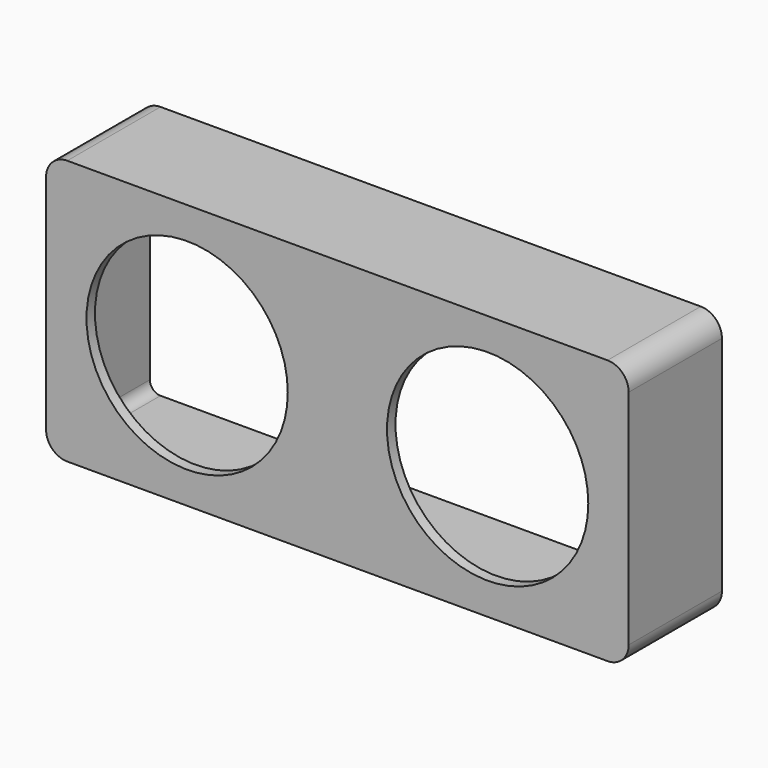
from build123d import *

# Parameters (mm, degrees)
F0_R     = 9.5
F1_DEPTH = 1
F3_DEPTH = 10
F4_DEPTH = 35.9


with BuildPart() as f1:
    # F0 (on Front) → F1 (new body)
    with BuildSketch(Plane.XZ):
        with BuildLine():
            Line((25.5, 12.5), (-25.5, 12.5))
            ThreePointArc((-25.5, 12.5), (-26.914214, 11.914214), (-27.5, 10.5))
            Line((-27.5, 10.5), (-27.5, -10.5))
            ThreePointArc((-27.5, -10.5), (-26.914214, -11.914214), (-25.5, -12.5))
            Line((-25.5, -12.5), (25.5, -12.5))
            ThreePointArc((25.5, -12.5), (26.914214, -11.914214), (27.5, -10.5))
            Line((27.5, -10.5), (27.5, 10.5))
            ThreePointArc((27.5, 10.5), (26.914214, 11.914214), (25.5, 12.5))
        make_face()
        with Locations((-14.184796, 0)):
            Circle(F0_R, mode=Mode.SUBTRACT)
        with Locations((14.184796, 0)):
            Circle(F0_R, mode=Mode.SUBTRACT)
    extrude(amount=F1_DEPTH)

    # F0 (on Front) → F3 (join)
    with BuildSketch(Plane.XZ):
        with BuildLine():
            Line((25.5, 12.5), (-25.5, 12.5))
            ThreePointArc((-25.5, 12.5), (-26.914214, 11.914214), (-27.5, 10.5))
            Line((-27.5, 10.5), (-27.5, -10.5))
            ThreePointArc((-27.5, -10.5), (-26.914214, -11.914214), (-25.5, -12.5))
            Line((-25.5, -12.5), (25.5, -12.5))
            ThreePointArc((25.5, -12.5), (26.914214, -11.914214), (27.5, -10.5))
            Line((27.5, -10.5), (27.5, 10.5))
            ThreePointArc((27.5, 10.5), (26.914214, 11.914214), (25.5, 12.5))
        make_face()
        with Locations((-14.184796, 0)):
            Circle(F0_R, mode=Mode.SUBTRACT)
        with Locations((14.184796, 0)):
            Circle(F0_R, mode=Mode.SUBTRACT)
    extrude(amount=-F3_DEPTH)

    # F2 (on Front) → F4 (cut)
    with BuildSketch(Plane.XZ):
        with BuildLine():
            ThreePointArc((26.5, 10.5), (26.207107, 11.207107), (25.5, 11.5))
            Line((25.5, 11.5), (-25.5, 11.5))
            ThreePointArc((-25.5, 11.5), (-26.207107, 11.207107), (-26.5, 10.5))
            Line((-26.5, 10.5), (-26.5, -10.5))
            ThreePointArc((-26.5, -10.5), (-26.207107, -11.207107), (-25.5, -11.5))
            Line((-25.5, -11.5), (25.5, -11.5))
            ThreePointArc((25.5, -11.5), (26.207107, -11.207107), (26.5, -10.5))
            Line((26.5, -10.5), (26.5, 10.5))
        make_face()
    extrude(amount=-F4_DEPTH, mode=Mode.SUBTRACT)


solid = f1.part
